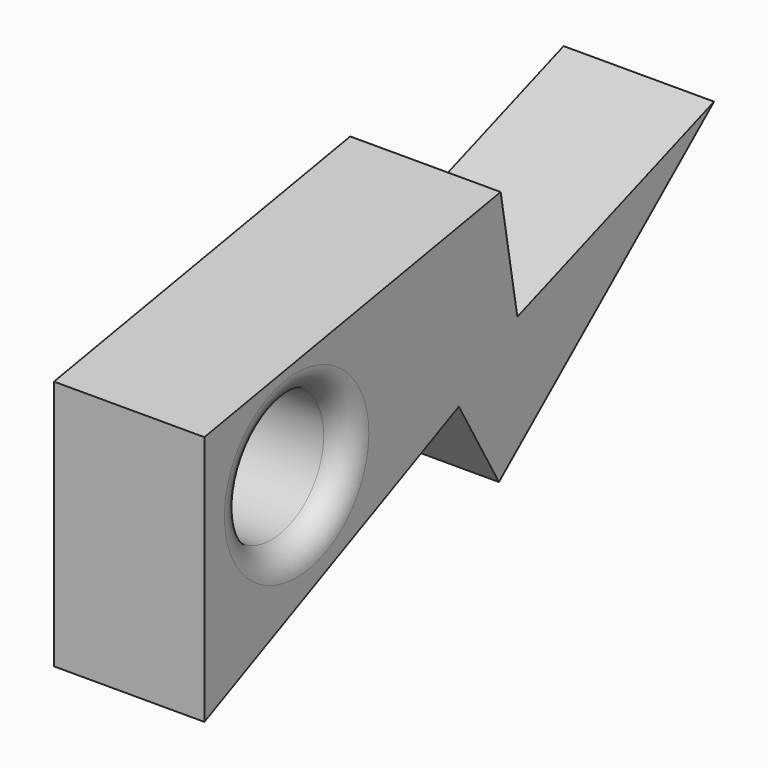
from build123d import *

# Parameters (mm, degrees)
F0_R     = 13
F1_DEPTH = 30
F2_R     = 5


with BuildPart() as f1:
    # F0 (on Right) → F1 (new body)
    with BuildSketch(Plane.YZ):
        Polygon((0, 50), (0, 0), (63.441545, 29.583278), (73.441545, 12.26277), (127.064656, 57.257903), (78.024519, 39.408753), (73.860581, 63.023613), align=None)
        with Locations((23, 34)):
            Circle(F0_R, mode=Mode.SUBTRACT)
    extrude(amount=F1_DEPTH)

    # F2
    f2_edges = [f1.edges().sort_by_distance(p)[0] for p in [
        (30, 10, 34),
    ]]
    fillet(f2_edges, radius=F2_R)


solid = f1.part
